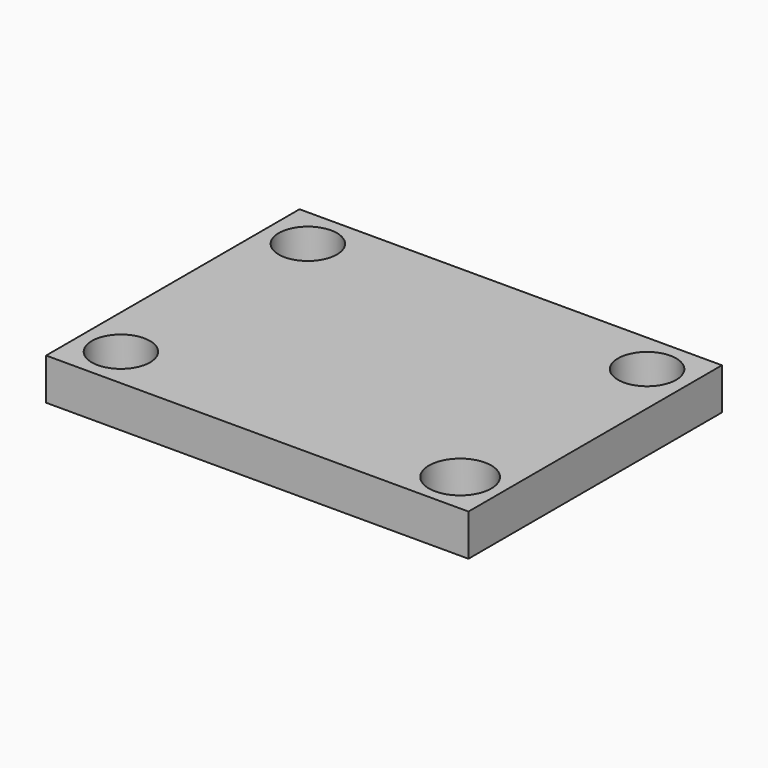
from build123d import *

# Parameters (mm, degrees)
F0_W     = 50.8
F0_H     = 38.1
F1_DEPTH = 5
F2_R     = 3.5
F2_R_2   = 3.75
F3_DEPTH = 5


with BuildPart() as f1:
    # F0 (on Top) → F1 (new body)
    with BuildSketch(Plane.XY):
        with Locations((-7.523146, -8.134835)):
            Rectangle(F0_W, F0_H)
    extrude(amount=F1_DEPTH)

    # F2 (on face) → F3 (cut)
    with BuildSketch(Plane.XY.offset(5)):
        with Locations((-27.923146, -22.184835)):
            Circle(F2_R)
        with Locations((12.876854, 5.915165)):
            Circle(F2_R)
        with Locations((12.876854, -22.184835)):
            Circle(F2_R_2)
        with Locations((-27.923146, 5.915165)):
            Circle(F2_R)
    extrude(amount=-F3_DEPTH, mode=Mode.SUBTRACT)


solid = f1.part
